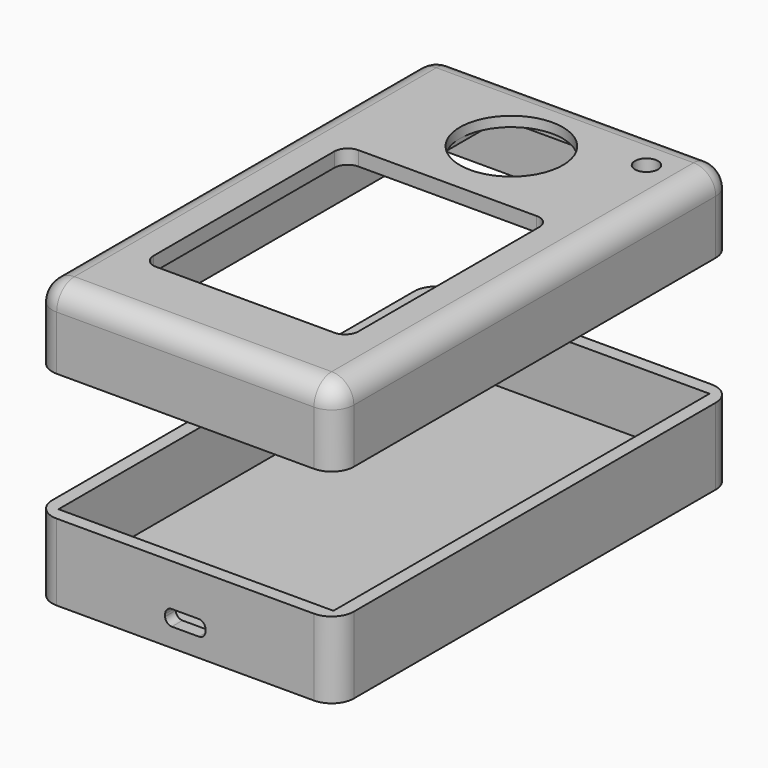
from build123d import *

# Parameters (mm, degrees)
SKETCH_W        = 68
SKETCH_H        = 112
PAD_DEPTH       = 3.25
POCKET_DEPTH    = 10
SKETCH002_R     = 11.6
POCKET001_DEPTH = 10
SKETCH003_R     = 2.6
POCKET002_DEPTH = 10
SKETCH004_W     = 68
SKETCH004_H     = 112
SKETCH004_W_2   = 62
SKETCH004_H_2   = 106
PAD001_DEPTH    = 14
FILLET_R        = 5
SKETCH008_W     = 23.4
SKETCH008_H     = 23.7
POCKET004_DEPTH = 1
SKETCH005_W     = 68
SKETCH005_H     = 112
PAD002_DEPTH    = 3.25
SKETCH006_W     = 68
SKETCH006_H     = 112
SKETCH006_W_2   = 62
SKETCH006_H_2   = 106
PAD003_DEPTH    = 14
FILLET001_R     = 5
POCKET005_DEPTH = 5


with BuildPart() as front:
    # Sketch → Pad (new body)
    with BuildSketch(Plane.XY):
        Rectangle(SKETCH_W, SKETCH_H)
    extrude(amount=PAD_DEPTH)

    # Sketch001 (on Face6 of Pad) → Pocket (cut)
    with BuildSketch(Plane.XY.offset(3.25)):
        with BuildLine():
            Line((-23.1, 14.9), (-23.1, -36.1))
            ThreePointArc((-23.1, -36.1), (-22.22132, -38.22132), (-20.1, -39.1))
            Line((-20.1, -39.1), (20.1, -39.1))
            ThreePointArc((20.1, -39.1), (22.22132, -38.22132), (23.1, -36.1))
            Line((23.1, -36.1), (23.1, 14.9))
            ThreePointArc((23.1, 14.9), (22.22132, 17.02132), (20.1, 17.9))
            Line((20.1, 17.9), (-20.1, 17.9))
            ThreePointArc((-20.1, 17.9), (-22.22132, 17.02132), (-23.1, 14.9))
        make_face()
    extrude(amount=-POCKET_DEPTH, mode=Mode.SUBTRACT)

    # Sketch002 (on Face5 of Pocket) → Pocket001 (cut)
    with BuildSketch(Plane.XY.offset(3.25)):
        with Locations((0, 35.9)):
            Circle(SKETCH002_R)
    extrude(amount=-POCKET001_DEPTH, mode=Mode.SUBTRACT)

    # Sketch003 (on Face5 of Pocket001) → Pocket002 (cut)
    with BuildSketch(Plane.XY.offset(3.25)):
        with Locations((23.1, 45.1)):
            Circle(SKETCH003_R)
    extrude(amount=-POCKET002_DEPTH, mode=Mode.SUBTRACT)

    # Sketch004 (on Face4 of Pocket002) → Pad001 (join)
    with BuildSketch(Plane(origin=(0, 0, 0), x_dir=(1, 0, 0), z_dir=(0, 0, -1))):
        Rectangle(SKETCH004_W, SKETCH004_H)
        Rectangle(SKETCH004_W_2, SKETCH004_H_2, mode=Mode.SUBTRACT)
    extrude(amount=PAD001_DEPTH)

    # Fillet
    fillet_edges = [front.edges().sort_by_distance(p)[0] for p in [
        (34, 0, 3.25),
        (0, -56, 3.25),
        (-34, 0, 3.25),
        (0, 56, 3.25),
        (34, -56, -5.375),
        (-34, -56, -5.375),
        (34, 56, -5.375),
        (-34, 56, -5.375),
    ]]
    fillet(fillet_edges, radius=FILLET_R)

    # Sketch008 (on Face22 of Fillet) → Pocket004 (cut)
    with BuildSketch(Plane(origin=(0, 0, 0), x_dir=(1, 0, 0), z_dir=(0, 0, -1))):
        with Locations((0, -35.9)):
            Rectangle(SKETCH008_W, SKETCH008_H)
    extrude(amount=-POCKET004_DEPTH, mode=Mode.SUBTRACT)


with BuildPart() as back:
    # Sketch005 → Pad002 (new body)
    with BuildSketch(Plane.XY):
        Rectangle(SKETCH005_W, SKETCH005_H)
    extrude(amount=PAD002_DEPTH)

    # Sketch006 (on Face6 of Pad002) → Pad003 (join)
    with BuildSketch(Plane.XY.offset(3.25)):
        Rectangle(SKETCH006_W, SKETCH006_H)
        Rectangle(SKETCH006_W_2, SKETCH006_H_2, mode=Mode.SUBTRACT)
    extrude(amount=PAD003_DEPTH)

    # Fillet001
    fillet001_edges = [back.edges().sort_by_distance(p)[0] for p in [
        (34, -56, 8.625),
        (-34, -56, 8.625),
        (-34, 56, 8.625),
        (34, 56, 8.625),
    ]]
    fillet(fillet001_edges, radius=FILLET001_R)

    # Sketch007 (on Face6 of Fillet001) → Pocket005 (cut)
    with BuildSketch(Plane.XZ.offset(56)):
        with BuildLine():
            Line((-3.05, 4.25), (3.05, 4.25))
            ThreePointArc((3.05, 4.25), (4.11066, 4.68934), (4.55, 5.75))
            Line((4.55, 6.25), (4.55, 5.75))
            ThreePointArc((4.55, 6.25), (4.11066, 7.31066), (3.05, 7.75))
            Line((-3.05, 7.75), (3.05, 7.75))
            ThreePointArc((-3.05, 7.75), (-4.11066, 7.31066), (-4.55, 6.25))
            Line((-4.55, 5.75), (-4.55, 6.25))
            ThreePointArc((-4.55, 5.75), (-4.11066, 4.68934), (-3.05, 4.25))
        make_face()
    extrude(amount=-POCKET005_DEPTH, mode=Mode.SUBTRACT)


with BuildPart() as back_1:
    # Body001 placement: moved
    add(back.part.moved(Location((0, 0, -60))))


solid = Compound([front.part, back_1.part])
